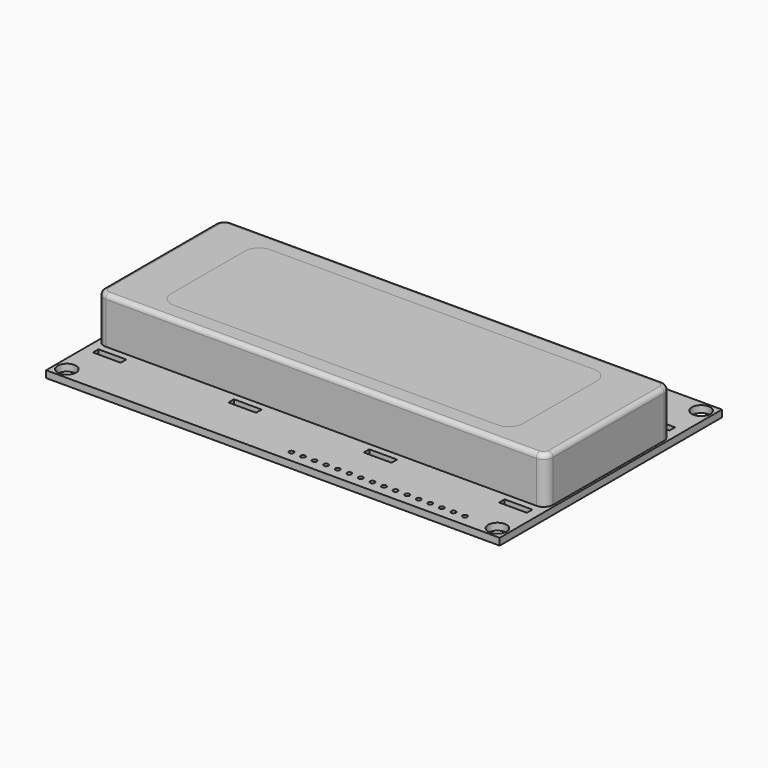
from build123d import *

# Parameters (mm, degrees)
F0_W     = 98
F0_H     = 60
F0_R     = 2
F0_W_2   = 6
F0_H_2   = 1.5
F0_R_2   = 0.5
F1_DEPTH = 1.5
F3_DEPTH = 10
F4_DEPTH = 10
F5_R     = 1


with BuildPart() as f1:
    # F0 (on Top) → F1 (new body)
    with BuildSketch(Plane.XY):
        Rectangle(F0_W, F0_H)
        with Locations((-46.5, -27.5)):
            Circle(F0_R, mode=Mode.SUBTRACT)
        with Locations((-43.875, -19.25)):
            Rectangle(F0_W_2, F0_H_2, mode=Mode.SUBTRACT)
        with Locations((-14.625, -19.25)):
            Rectangle(F0_W_2, F0_H_2, mode=Mode.SUBTRACT)
        with Locations((2, -27.5)):
            Circle(F0_R_2, mode=Mode.SUBTRACT)
        with Locations((4.5, -27.5)):
            Circle(F0_R_2, mode=Mode.SUBTRACT)
        with Locations((7, -27.5)):
            Circle(F0_R_2, mode=Mode.SUBTRACT)
        with Locations((9.5, -27.5)):
            Circle(F0_R_2, mode=Mode.SUBTRACT)
        with Locations((12, -27.5)):
            Circle(F0_R_2, mode=Mode.SUBTRACT)
        with Locations((14.5, -27.5)):
            Circle(F0_R_2, mode=Mode.SUBTRACT)
        with Locations((17, -27.5)):
            Circle(F0_R_2, mode=Mode.SUBTRACT)
        with Locations((19.5, -27.5)):
            Circle(F0_R_2, mode=Mode.SUBTRACT)
        with Locations((22, -27.5)):
            Circle(F0_R_2, mode=Mode.SUBTRACT)
        with Locations((24.5, -27.5)):
            Circle(F0_R_2, mode=Mode.SUBTRACT)
        with Locations((14.625, -19.25)):
            Rectangle(F0_W_2, F0_H_2, mode=Mode.SUBTRACT)
        with Locations((27, -27.5)):
            Circle(F0_R_2, mode=Mode.SUBTRACT)
        with Locations((29.5, -27.5)):
            Circle(F0_R_2, mode=Mode.SUBTRACT)
        with Locations((32, -27.5)):
            Circle(F0_R_2, mode=Mode.SUBTRACT)
        with Locations((34.5, -27.5)):
            Circle(F0_R_2, mode=Mode.SUBTRACT)
        with Locations((37, -27.5)):
            Circle(F0_R_2, mode=Mode.SUBTRACT)
        with Locations((39.5, -27.5)):
            Circle(F0_R_2, mode=Mode.SUBTRACT)
        with Locations((46.5, -27.5)):
            Circle(F0_R, mode=Mode.SUBTRACT)
        with Locations((43.875, -19.25)):
            Rectangle(F0_W_2, F0_H_2, mode=Mode.SUBTRACT)
        with Locations((-43.875, 19.25)):
            Rectangle(F0_W_2, F0_H_2, mode=Mode.SUBTRACT)
        with Locations((-46.5, 27.5)):
            Circle(F0_R, mode=Mode.SUBTRACT)
        with Locations((-14.625, 19.25)):
            Rectangle(F0_W_2, F0_H_2, mode=Mode.SUBTRACT)
        with Locations((14.625, 19.25)):
            Rectangle(F0_W_2, F0_H_2, mode=Mode.SUBTRACT)
        with Locations((43.875, 19.25)):
            Rectangle(F0_W_2, F0_H_2, mode=Mode.SUBTRACT)
        with Locations((46.5, 27.5)):
            Circle(F0_R, mode=Mode.SUBTRACT)
    extrude(amount=F1_DEPTH)


with BuildPart() as f3:
    # F2 (on face) → F3 (new body)
    with BuildSketch(Plane.XY.offset(1.5)):
        with BuildLine():
            Line((46.5, 17), (-46.5, 17))
            ThreePointArc((-46.5, 17), (-47.914214, 16.414214), (-48.5, 15))
            Line((-48.5, 15), (-48.5, -15))
            ThreePointArc((-48.5, -15), (-47.914214, -16.414214), (-46.5, -17))
            Line((-46.5, -17), (46.5, -17))
            ThreePointArc((46.5, -17), (47.914214, -16.414214), (48.5, -15))
            Line((48.5, -15), (48.5, 15))
            ThreePointArc((48.5, 15), (47.914214, 16.414214), (46.5, 17))
        make_face()
        with BuildLine():
            ThreePointArc((-38, 10), (-37.12132, 12.12132), (-35, 13))
            Line((-35, 13), (35, 13))
            ThreePointArc((35, 13), (37.12132, 12.12132), (38, 10))
            Line((38, 10), (38, -10))
            ThreePointArc((38, -10), (37.12132, -12.12132), (35, -13))
            Line((35, -13), (-35, -13))
            ThreePointArc((-35, -13), (-37.12132, -12.12132), (-38, -10))
            Line((-38, -10), (-38, 10))
        make_face(mode=Mode.SUBTRACT)
    extrude(amount=F3_DEPTH)

    # F5
    f5_edges = [f3.edges().sort_by_distance(p)[0] for p in [
        (0, -17, 11.5),
    ]]
    fillet(f5_edges, radius=F5_R)


with BuildPart() as f4:
    # F2 (on face) → F4 (new body)
    with BuildSketch(Plane.XY.offset(1.5)):
        with BuildLine():
            Line((35, 13), (-35, 13))
            ThreePointArc((-35, 13), (-37.12132, 12.12132), (-38, 10))
            Line((-38, 10), (-38, -10))
            ThreePointArc((-38, -10), (-37.12132, -12.12132), (-35, -13))
            Line((-35, -13), (35, -13))
            ThreePointArc((35, -13), (37.12132, -12.12132), (38, -10))
            Line((38, -10), (38, 10))
            ThreePointArc((38, 10), (37.12132, 12.12132), (35, 13))
        make_face()
    extrude(amount=F4_DEPTH)


solid = Compound([f1.part, f3.part, f4.part])
